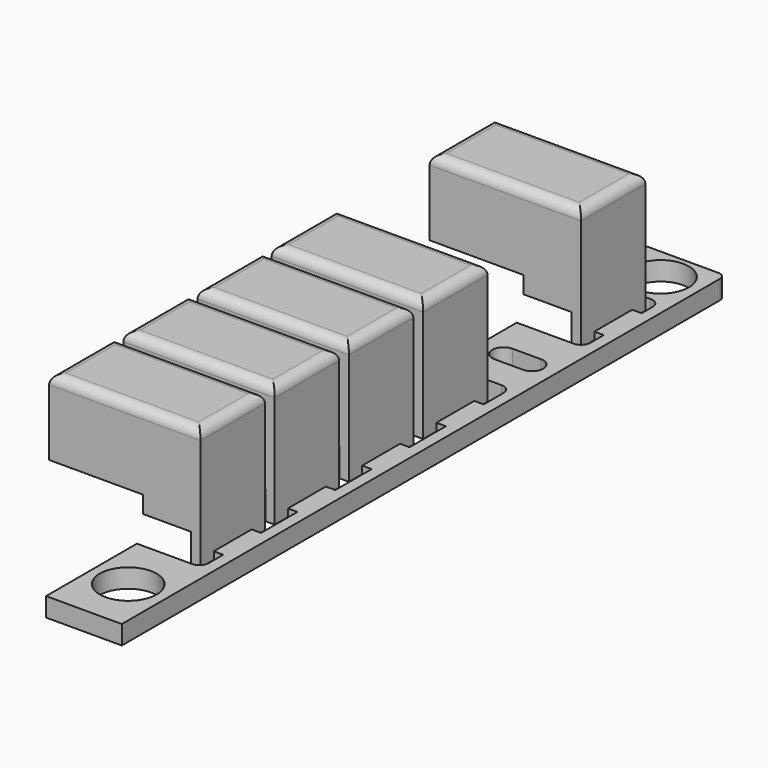
from build123d import *

# Parameters (mm, degrees)
SKETCH023_R     = 3
PAD012_DEPTH    = 2
SKETCH024_W     = 5
SKETCH024_H     = 1
SKETCH024_W_2   = 1
SKETCH024_H_2   = 5
PAD013_DEPTH    = 1
SKETCH025_W     = 16
SKETCH025_H     = 8.5
PAD014_DEPTH    = 14
SKETCH026_W     = 14
SKETCH026_H     = 6.5
POCKET009_DEPTH = 13
SKETCH027_W     = 9.9
SKETCH027_H     = 58.76
POCKET010_DEPTH = 6
SKETCH043_R     = 1.25
PAD027_DEPTH    = 10.9
FILLET004_R     = 0.8
FILLET005_R     = 1
SKETCH127_W     = 5
SKETCH127_H     = 1
SKETCH127_W_2   = 1
SKETCH127_H_2   = 5
PAD068_DEPTH    = 1
POCKET058_DEPTH = 1.2
FILLET012_R     = 1
SKETCH137_W     = 1
SKETCH137_H     = 5
PAD074_DEPTH    = 0.8
SKETCH138_W     = 5
SKETCH138_H     = 1
POCKET062_DEPTH = 5
SKETCH139_W     = 5.1
SKETCH139_H     = 1
POCKET063_DEPTH = 3


with BuildPart() as part:
    # Sketch023 → Pad012 (new body)
    with BuildSketch(Plane.XY):
        with BuildLine():
            Line((-4.34, 41.56), (2.76, 41.56))
            Line((2.76, 31.36), (2.76, 41.56))
            Line((-4.24, 31.36), (2.76, 31.36))
            Line((-4.24, 21.86), (-4.24, 31.36))
            Line((2.76, 21.86), (-4.24, 21.86))
            Line((2.76, -19.05), (2.76, 21.86))
            Line((-4.04, -19.05), (2.76, -19.05))
            Line((-4.04, -31.05), (-4.04, -19.05))
            Line((3.96, -31.05), (-4.04, -31.05))
            Line((3.96, 47.95), (3.96, -31.05))
            ThreePointArc((3.96, 47.95), (3.74033, 48.48033), (3.21, 48.7))
            Line((-4.34, 48.7), (3.21, 48.7))
            Line((-4.34, 48.7), (-4.34, 41.56))
        make_face()
        with Locations((-0.09, 45.16)):
            Circle(SKETCH023_R, mode=Mode.SUBTRACT)
        with Locations((-0.09, -25.14)):
            Circle(SKETCH023_R, mode=Mode.SUBTRACT)
        with BuildLine():
            Line((1.41, 27.51), (-1.59, 27.51))
            ThreePointArc((-1.59, 27.51), (-2.79, 26.31), (-1.59, 25.11))
            Line((-1.59, 25.11), (1.41, 25.11))
            ThreePointArc((1.41, 25.11), (2.61, 26.31), (1.41, 27.51))
        make_face(mode=Mode.SUBTRACT)
    extrude(amount=-PAD012_DEPTH)

    # Sketch024 (on Face21 of Pad012) → Pad013 (join)
    with BuildSketch(Plane(origin=(0, 0, -2), x_dir=(1, 0, 0), z_dir=(0, 0, -1))):
        with Locations((-0.74, -31.86)):
            Rectangle(SKETCH024_W, SKETCH024_H)
        with Locations((2.26, 13.65)):
            Rectangle(SKETCH024_W_2, SKETCH024_H_2)
        with Locations((2.26, 3.85)):
            Rectangle(SKETCH024_W_2, SKETCH024_H_2)
        with Locations((2.26, -5.95)):
            Rectangle(SKETCH024_W_2, SKETCH024_H_2)
        with Locations((2.26, -15.75)):
            Rectangle(SKETCH024_W_2, SKETCH024_H_2)
    extrude(amount=-PAD013_DEPTH)

    # Sketch025 (on Face41 of Pad013) → Pad014 (join)
    with BuildSketch(Plane(origin=(0, 0, -2), x_dir=(1, 0, 0), z_dir=(0, 0, -1))):
        with Locations((-6.24, 13.65)):
            Rectangle(SKETCH025_W, SKETCH025_H)
        with Locations((-6.24, 3.85)):
            Rectangle(SKETCH025_W, SKETCH025_H)
        with Locations((-6.24, -5.95)):
            Rectangle(SKETCH025_W, SKETCH025_H)
        with Locations((-6.24, -15.75)):
            Rectangle(SKETCH025_W, SKETCH025_H)
        with Locations((-6.24, -36.61)):
            Rectangle(SKETCH025_W, SKETCH025_H)
    extrude(amount=-PAD014_DEPTH)

    # Sketch026 (on Face59 of Pad014) → Pocket009 (cut)
    with BuildSketch(Plane(origin=(0, 0, -2), x_dir=(1, 0, 0), z_dir=(0, 0, -1))):
        with Locations((-6.24, 13.65)):
            Rectangle(SKETCH026_W, SKETCH026_H)
        with Locations((-6.24, 3.85)):
            Rectangle(SKETCH026_W, SKETCH026_H)
        with Locations((-6.24, -5.95)):
            Rectangle(SKETCH026_W, SKETCH026_H)
        with Locations((-6.24, -15.75)):
            Rectangle(SKETCH026_W, SKETCH026_H)
        with Locations((-6.24, -36.61)):
            Rectangle(SKETCH026_W, SKETCH026_H)
    extrude(amount=-POCKET009_DEPTH, mode=Mode.SUBTRACT)

    # Sketch027 (on Face4 of Pocket009) → Pocket010 (cut)
    with BuildSketch(Plane(origin=(0, 0, -2), x_dir=(1, 0, 0), z_dir=(0, 0, -1))):
        with Locations((-9.29, -11.48)):
            Rectangle(SKETCH027_W, SKETCH027_H)
    extrude(amount=-POCKET010_DEPTH, mode=Mode.SUBTRACT)

    # Sketch043 (on Face99 of Pocket010) → Pad027 (join)
    with BuildSketch(Plane(origin=(0, 0, 11), x_dir=(1, 0, 0), z_dir=(0, 0, -1))):
        with Locations((-2, 12.5)):
            Circle(SKETCH043_R)
        with Locations((-2, 2.7)):
            Circle(SKETCH043_R)
        with Locations((-2, -7.1)):
            Circle(SKETCH043_R)
        with Locations((-2, -16.9)):
            Circle(SKETCH043_R)
        with Locations((-2, -37.76)):
            Circle(SKETCH043_R)
    extrude(amount=PAD027_DEPTH)

    # Fillet004
    fillet004_edges = [part.edges().sort_by_distance(p)[0] for p in [
        (-3.25, 37.76, 11),
        (-3.25, 16.9, 11),
        (-3.25, 7.1, 11),
        (-3.25, -2.7, 11),
        (-3.25, -12.5, 11),
    ]]
    fillet(fillet004_edges, radius=FILLET004_R)

    # Fillet005
    fillet005_edges = [part.edges().sort_by_distance(p)[0] for p in [
        (-14.24, 36.61, 12),
        (-6.24, 32.36, 12),
        (-6.24, 40.86, 12),
        (1.76, 36.61, 12),
        (-14.24, 15.75, 12),
        (-6.24, 20, 12),
        (1.76, 15.75, 12),
        (-6.24, 11.5, 12),
        (-6.24, 10.2, 12),
        (-14.24, 5.95, 12),
        (-6.24, 1.7, 12),
        (1.76, 5.95, 12),
        (-14.24, -3.85, 12),
        (-6.24, 0.4, 12),
        (-6.24, -8.1, 12),
        (1.76, -3.85, 12),
        (-6.24, -9.4, 12),
        (1.76, -13.65, 12),
        (-6.24, -17.9, 12),
        (-14.24, -13.65, 12),
    ]]
    fillet(fillet005_edges, radius=FILLET005_R)

    # Sketch127 (on Face81 of Fillet005) → Pad068 (join)
    with BuildSketch(Plane.XY.offset(-1)):
        with Locations((-0.74, 31.86)):
            Rectangle(SKETCH127_W, SKETCH127_H)
        with Locations((2.26, 15.75)):
            Rectangle(SKETCH127_W_2, SKETCH127_H_2)
        with Locations((2.26, 5.95)):
            Rectangle(SKETCH127_W_2, SKETCH127_H_2)
        with Locations((2.26, -3.85)):
            Rectangle(SKETCH127_W_2, SKETCH127_H_2)
        with Locations((2.26, -13.65)):
            Rectangle(SKETCH127_W_2, SKETCH127_H_2)
    extrude(amount=PAD068_DEPTH)

    # Sketch128 (on Face8 of Pad068) → Pocket058 (cut)
    with BuildSketch(Plane(origin=(0, 0, -2), x_dir=(1, 0, 0), z_dir=(0, 0, -1))):
        Polygon((-4.34, 17.9), (1.76, 17.9), (1.76, 16.15), (2.76, 16.15), (2.76, 11.15), (1.76, 11.15), (1.76, 9.4), (-4.34, 9.4), (-4.34, 10.4), (0.76, 10.4), (0.76, 16.9), (-4.34, 16.9), align=None)
        Polygon((2.76, 6.35), (1.76, 6.35), (1.76, 8.1), (-4.34, 8.1), (-4.34, 7.1), (0.76, 7.1), (0.76, 0.6), (-4.34, 0.6), (-4.34, -0.4), (1.76, -0.4), (1.76, 1.35), (2.76, 1.35), align=None)
        Polygon((-4.34, -1.7), (1.76, -1.7), (1.76, -3.45), (2.76, -3.45), (2.76, -8.45), (1.76, -8.45), (1.76, -10.2), (-4.34, -10.2), (-4.34, -9.2), (0.76, -9.2), (0.76, -2.7), (-4.34, -2.7), align=None)
        Polygon((-4.34, -11.5), (1.76, -11.5), (1.76, -13.25), (2.76, -13.25), (2.76, -18.25), (1.76, -18.25), (1.76, -20), (-4.34, -20), (-4.34, -19), (0.76, -19), (0.76, -12.5), (-4.34, -12.5), align=None)
        Polygon((1.76, -31.36), (1.76, -40.86), (-4.34, -40.86), (-4.34, -39.86), (0.76, -39.86), (0.76, -33.36), (-4.34, -33.36), (-4.34, -32.36), (-3.24, -32.36), (-3.24, -31.36), align=None)
    extrude(amount=-POCKET058_DEPTH, mode=Mode.SUBTRACT)

    # Fillet012
    fillet012_edges = [part.edges().sort_by_distance(p)[0] for p in [
        (2.76, 41.56, -1),
        (2.76, 31.36, -1),
        (2.76, 21.86, -1),
        (2.76, -19.05, -1),
    ]]
    fillet(fillet012_edges, radius=FILLET012_R)

    # Sketch137 (on Face54 of Fillet012) → Pad074 (join)
    with BuildSketch(Plane(origin=(0, 0, -0.8), x_dir=(1, 0, 0), z_dir=(0, 0, -1))):
        with Locations((2.26, -36.61)):
            Rectangle(SKETCH137_W, SKETCH137_H)
    extrude(amount=-PAD074_DEPTH)

    # Sketch138 (on Face141 of Pad074) → Pocket062 (cut)
    with BuildSketch(Plane(origin=(0, 0, -0.8), x_dir=(1, 0, 0), z_dir=(0, 0, -1))):
        with Locations((-0.74, -31.86)):
            Rectangle(SKETCH138_W, SKETCH138_H)
    extrude(amount=-POCKET062_DEPTH, mode=Mode.SUBTRACT)

    # Sketch139 (on Face72 of Pocket062) → Pocket063 (cut)
    with BuildSketch(Plane(origin=(0, 0, -0.8), x_dir=(1, 0, 0), z_dir=(0, 0, -1))):
        with Locations((-1.79, 17.4)):
            Rectangle(SKETCH139_W, SKETCH139_H)
        with Locations((-1.79, 9.9)):
            Rectangle(SKETCH139_W, SKETCH139_H)
        with Locations((-1.79, 7.6)):
            Rectangle(SKETCH139_W, SKETCH139_H)
        with Locations((-1.79, 0.1)):
            Rectangle(SKETCH139_W, SKETCH139_H)
        with Locations((-1.79, -2.2)):
            Rectangle(SKETCH139_W, SKETCH139_H)
        with Locations((-1.79, -9.7)):
            Rectangle(SKETCH139_W, SKETCH139_H)
        with Locations((-1.79, -12)):
            Rectangle(SKETCH139_W, SKETCH139_H)
        with Locations((-1.79, -19.5)):
            Rectangle(SKETCH139_W, SKETCH139_H)
        with Locations((-1.79, -32.86)):
            Rectangle(SKETCH139_W, SKETCH139_H)
        with Locations((-1.79, -40.36)):
            Rectangle(SKETCH139_W, SKETCH139_H)
    extrude(amount=-POCKET063_DEPTH, mode=Mode.SUBTRACT)


with BuildPart() as part_1:
    # Body005 placement: moved
    add(part.part.moved(Location((83, 0, 8))))


solid = part_1.part
